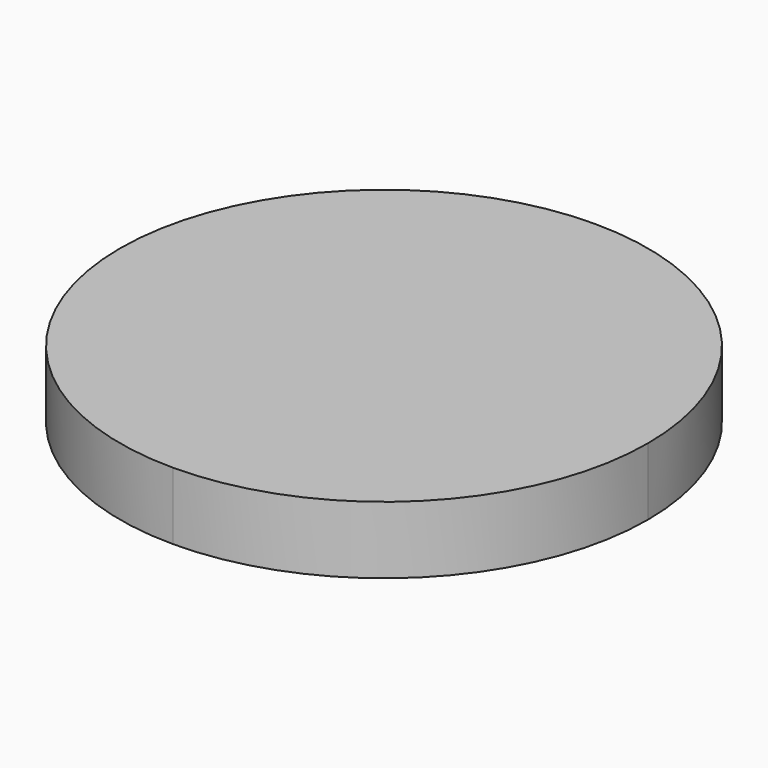
from build123d import *

# Parameters (mm, degrees)
F1_DEPTH = 13


with BuildPart() as f1:
    # F0 (on Top) → F1 (new body)
    with BuildSketch(Plane.XY):
        with BuildLine():
            ThreePointArc((0, -51), (36.062446, -36.062446), (51, 0))
            ThreePointArc((51, 0), (0, 51), (-51, 0))
            ThreePointArc((-51, 0), (-36.062446, -36.062446), (0, -51))
        make_face()
    extrude(amount=F1_DEPTH)


solid = f1.part
